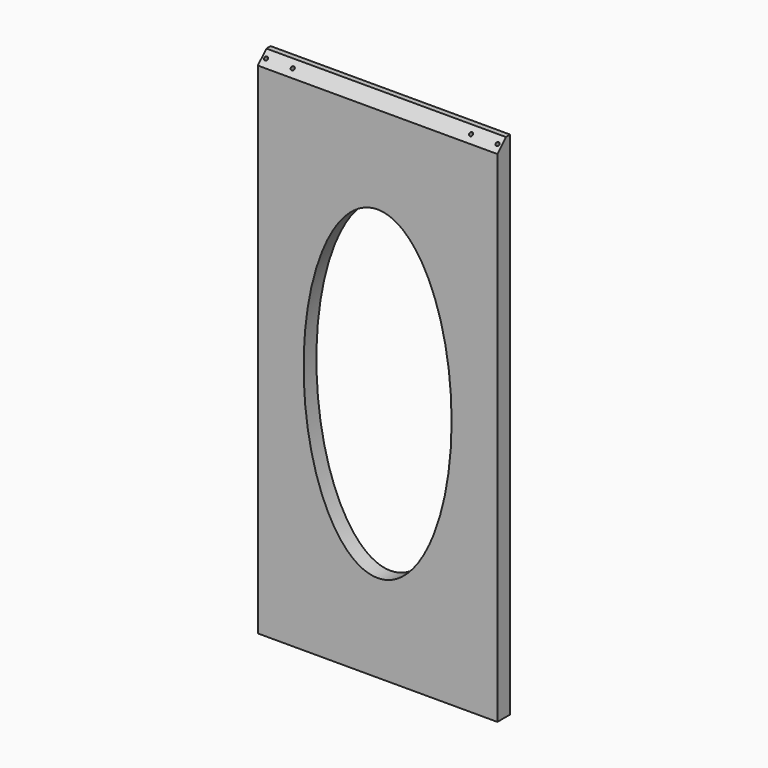
from build123d import *

# Parameters (mm, degrees)
F0_W     = 571.5
F0_H     = 1218.2094
F1_DEPTH = 38.1
F2_SIZE2 = 25.4
F2_SIZE  = 25.4
F4_DEPTH = 38.1
F5_R     = 4.36499
F6_DEPTH = 19.05
F7_R     = 3.96875
F8_DEPTH = 25.4


with BuildPart() as f1:
    # F0 (on Front) → F1 (new body)
    with BuildSketch(Plane.XZ):
        with Locations((285.75, 609.1047)):
            Rectangle(F0_W, F0_H)
    extrude(amount=F1_DEPTH)

    # F2
    f2_edges = [f1.edges().sort_by_distance(p)[0] for p in [
        (285.75, -38.1, 1218.2094),
    ]]
    chamfer(f2_edges, length=F2_SIZE, length2=F2_SIZE2)

    # F3 (on face) → F4 (cut)
    with BuildSketch(Plane.XZ.offset(38.1)):
        with BuildLine():
            add(Edge.make_bspline(
                [(285.75, 209.300756), (591.55855, 209.300756), (438.654275, 789.956672), (285.75, 1370.612587), (132.845725, 789.956672), (-20.05855, 209.300756), (285.75, 209.300756)],
                knots=[0, 0, 0, 2.094395, 2.094395, 4.18879, 4.18879, 6.283185, 6.283185, 6.283185], degree=2, weights=[1, 0.5, 1, 0.5, 1, 0.5, 1]))
        make_face()
    extrude(amount=-F4_DEPTH, mode=Mode.SUBTRACT)

    # F5 (on face) → F6 (cut)
    with BuildSketch(Plane(origin=(0, -615.4547, 615.4547), x_dir=(1, 0, 0), z_dir=(0, -0.707107, 0.707107))):
        with Locations((9.525, 834.463359)):
            Circle(F5_R)
        with BuildLine():
            ThreePointArc((77.38999, 834.463359), (73.025, 838.828349), (68.66001, 834.463359))
            ThreePointArc((68.66001, 834.463359), (73.025, 830.098369), (77.38999, 834.463359))
        make_face()
        with Locations((498.475, 834.463359)):
            Circle(F5_R)
        with BuildLine():
            ThreePointArc((566.33999, 834.463359), (561.975, 838.828349), (557.61001, 834.463359))
            ThreePointArc((557.61001, 834.463359), (561.975, 830.098369), (566.33999, 834.463359))
        make_face()
    extrude(amount=-F6_DEPTH, mode=Mode.SUBTRACT)

    # F7 (on face) → F8 (cut)
    with BuildSketch(Plane(origin=(0, 0, 0), x_dir=(-1, 0, 0), z_dir=(0, 1, 0))):
        with BuildLine():
            ThreePointArc((-467.51875, 1167.4094), (-463.55, 1163.44065), (-459.58125, 1167.4094))
            ThreePointArc((-459.58125, 1167.4094), (-463.55, 1171.37815), (-467.51875, 1167.4094))
        make_face()
        with Locations((-107.95, 1167.4094)):
            Circle(F7_R)
    extrude(amount=-F8_DEPTH, mode=Mode.SUBTRACT)


solid = f1.part
